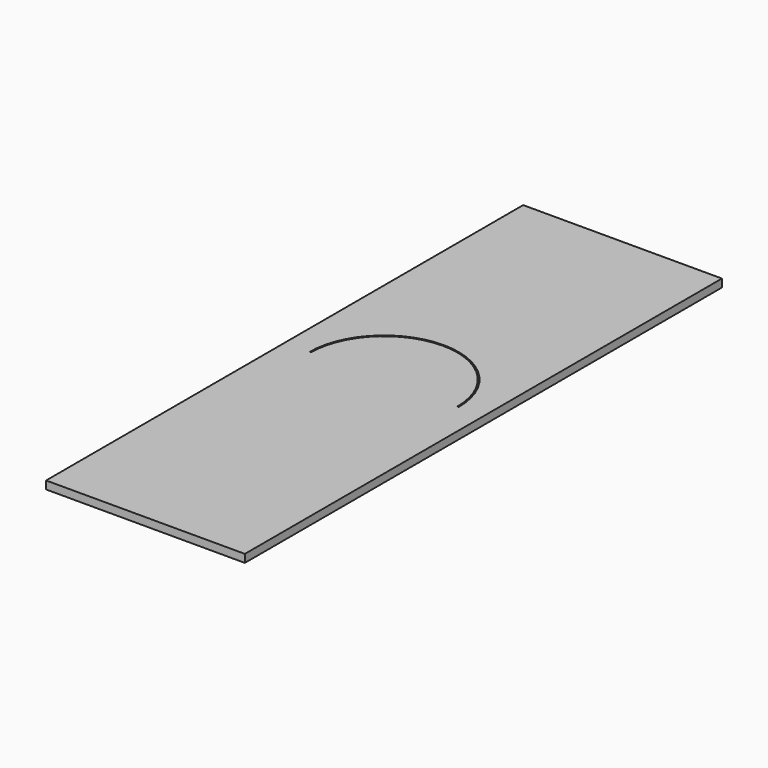
from build123d import *

# Parameters (mm, degrees)
PAD005_DEPTH      = 2
PAD005_DEPTH_BACK = 2
SKETCH021_W       = 25
SKETCH021_H       = 75
PAD020_DEPTH      = 1


with BuildPart() as body005:
    # Sketch006 → Pad005 (new body, two sides)
    with BuildSketch(Plane.XY) as pad005_sk:
        with BuildLine():
            ThreePointArc((21.884948, 37.50431), (12.518321, 46.87999), (3.125, 37.531055))
            Line((3.295001, 37.531055), (3.125, 37.531055))
            ThreePointArc((21.714948, 37.50431), (12.518321, 46.70999), (3.295001, 37.531055))
            Line((21.884948, 37.50431), (21.714948, 37.50431))
        make_face()
    extrude(amount=PAD005_DEPTH)
    extrude(pad005_sk.sketch, amount=-PAD005_DEPTH_BACK)


with BuildPart() as body019:
    # Sketch021 → Pad020 (new body)
    with BuildSketch(Plane.XY):
        with Locations((12.5, 37.5)):
            Rectangle(SKETCH021_W, SKETCH021_H)
    extrude(amount=PAD020_DEPTH)

    # Boolean004: cut Body005
    add(body005.part, mode=Mode.SUBTRACT)


solid = body019.part
